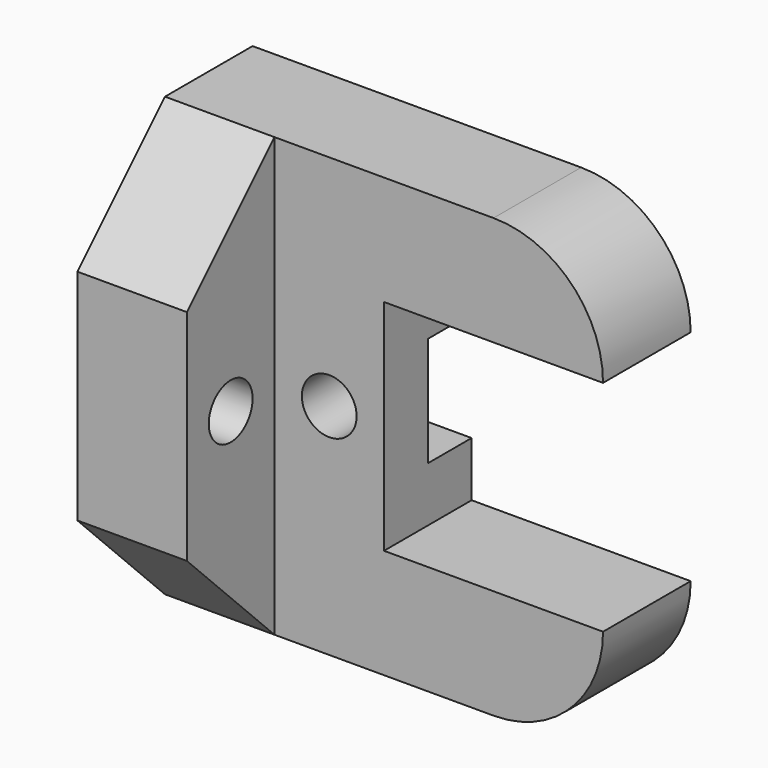
from build123d import *

# Parameters (mm, degrees)
F1_DEPTH = 25.4
F3_DEPTH = 50.8
F4_W     = 25.4
F4_H     = 50.8
F5_DEPTH = 101.6


with BuildPart() as f1:
    # F0 (on Front) → F1 (new body, symmetric)
    with BuildSketch(Plane.XZ):
        with BuildLine():
            Line((0, 203.2), (0, 0))
            Line((0, 0), (152.4, 0))
            ThreePointArc((152.4, 0), (188.321024, 14.878976), (203.2, 50.8))
            Line((203.2, 50.8), (101.6, 50.8))
            Line((101.6, 50.8), (101.6, 101.6))
            Line((101.6, 101.6), (101.6, 152.4))
            Line((101.6, 152.4), (152.4, 152.4))
            Line((152.4, 152.4), (203.2, 152.4))
            ThreePointArc((203.2, 152.4), (188.321024, 188.321024), (152.4, 203.2))
            Line((152.4, 203.2), (0, 203.2))
        make_face()
        with BuildLine():
            ThreePointArc((63.5, 101.6), (76.2, 114.3), (88.9, 101.6))
            ThreePointArc((88.9, 101.6), (76.2, 88.9), (63.5, 101.6))
        make_face(mode=Mode.SUBTRACT)
        with BuildLine():
            Line((0, 203.2), (0, 0))
            Line((0, 0), (152.4, 0))
            ThreePointArc((152.4, 0), (188.321024, 14.878976), (203.2, 50.8))
            Line((203.2, 50.8), (101.6, 50.8))
            Line((101.6, 50.8), (101.6, 101.6))
            Line((101.6, 101.6), (101.6, 152.4))
            Line((101.6, 152.4), (152.4, 152.4))
            Line((152.4, 152.4), (203.2, 152.4))
            ThreePointArc((203.2, 152.4), (188.321024, 188.321024), (152.4, 203.2))
            Line((152.4, 203.2), (0, 203.2))
        make_face()
        with BuildLine():
            ThreePointArc((63.5, 101.6), (76.2, 114.3), (88.9, 101.6))
            ThreePointArc((88.9, 101.6), (76.2, 88.9), (63.5, 101.6))
        make_face(mode=Mode.SUBTRACT)
    extrude(amount=F1_DEPTH, both=True)

    # F2 (on face) → F3 (join)
    with BuildSketch(Plane(origin=(0, 0, 0), x_dir=(0, -1, 0), z_dir=(-1, 0, 0))):
        with BuildLine():
            Line((25.4, 0), (76.2, 50.8))
            Line((76.2, 50.8), (76.2, 101.6))
            Line((76.2, 101.6), (63.5, 101.6))
            ThreePointArc((63.5, 101.6), (50.8, 88.9), (38.1, 101.6))
            Line((38.1, 101.6), (25.4, 101.6))
            Line((25.4, 101.6), (25.4, 0))
        make_face()
        with BuildLine():
            Line((63.5, 101.6), (76.2, 101.6))
            Line((76.2, 101.6), (76.2, 152.4))
            Line((76.2, 152.4), (25.4, 203.2))
            Line((25.4, 203.2), (25.4, 101.6))
            Line((25.4, 101.6), (38.1, 101.6))
            ThreePointArc((38.1, 101.6), (50.8, 114.3), (63.5, 101.6))
        make_face()
    extrude(amount=-F3_DEPTH)

    # F4 (on face) → F5 (cut)
    with BuildSketch(Plane.YZ.offset(101.6)):
        with Locations((12.7, 101.6)):
            Rectangle(F4_W, F4_H)
    extrude(amount=-F5_DEPTH, mode=Mode.SUBTRACT)


solid = f1.part
